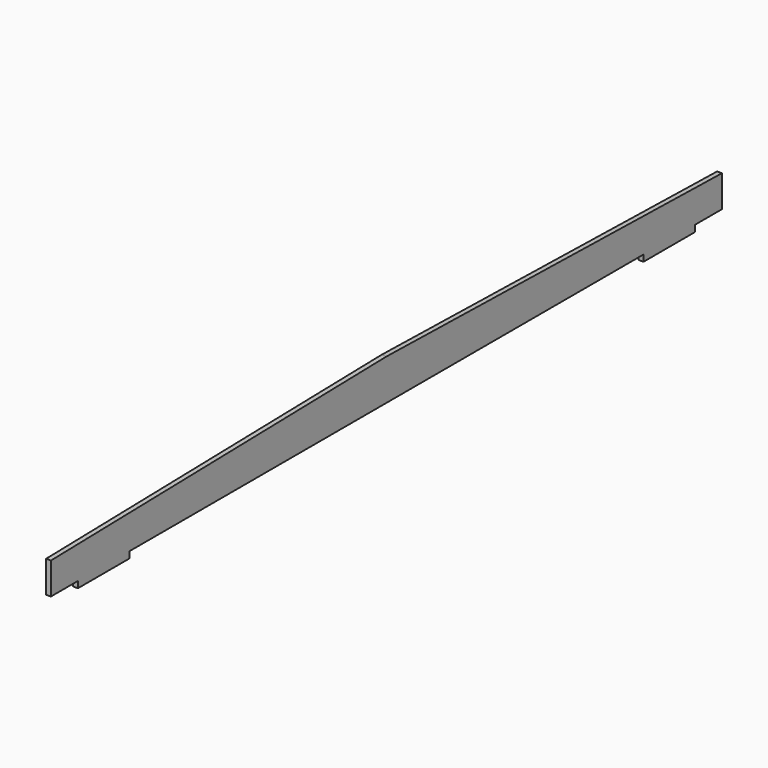
from build123d import *

# Parameters (mm, degrees)
F1_DEPTH = 3
F2_ANGLE = 90


with BuildPart() as f1:
    # F0 (on Right) → F1 (new body)
    with BuildSketch(Plane.YZ):
        Polygon((-9.0260932, 261.0000114), (-14.699996, 0), (-9.0260932, -260.999986), (10.700004, -260.999986), (10.700004, -240.0000026), (14.699996, -240.0000026), (14.699996, -200.0000064), (10.700004, -200.0000064), (10.700004, 200.0000064), (14.699996, 200.0000064), (14.699996, 240.0000026), (10.700004, 240.0000026), (10.700004, 261.0000114), align=None)
    extrude(amount=F1_DEPTH)


with BuildPart() as f1_1:
    # F2: moved
    add(f1.part.rotate(Axis((1.5, 14.699996, -200.0000064), (-1, 0, 0)), F2_ANGLE))


solid = f1_1.part
